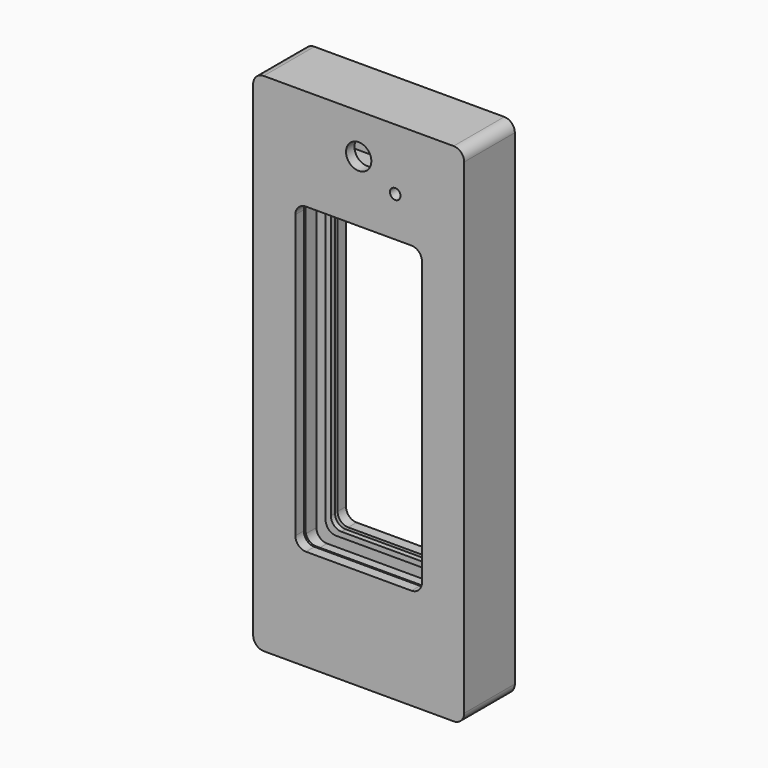
from build123d import *

# Parameters (mm, degrees)
F0_W      = 127
F0_H      = 304.8
F0_W_2    = 76.2
F0_H_2    = 182.88
F1_DEPTH  = 19.05
F2_W      = 101.6
F2_H      = 25.4
F3_DEPTH  = 41.91
F4_W      = 101.6
F4_H      = 208.28
F5_DEPTH  = 12.7
F6_W      = 114.3
F6_H      = 35.56
F7_DEPTH  = 12.7
F8_W      = 85.55
F8_H      = 192.23
F8_W_2    = 79.2
F8_H_2    = 185.88
F8_W_3    = 88.9
F8_H_3    = 3.175
F9_DEPTH  = 3.175
F10_W     = 85.55
F10_H     = 192.23
F10_W_2   = 79.2
F10_H_2   = 185.88
F10_W_3   = 88.9
F10_H_3   = 3.175
F11_DEPTH = 3.175
F13_D     = 15.24
F14_R     = 6.35
F15_W     = 6.35
F15_H     = 242.316
F16_DEPTH = 12.7
F18_DEPTH = 25.4
F19_R     = 3.175
F20_DEPTH = 12.7
F21_R     = 3.175
F22_DEPTH = 12.7


with BuildPart() as f1:
    # F0 (on Front) → F1 (new body, symmetric)
    with BuildSketch(Plane.XZ):
        Rectangle(F0_W, F0_H)
        Rectangle(F0_W_2, F0_H_2, mode=Mode.SUBTRACT)
    extrude(amount=F1_DEPTH, both=True)

    # F2 (on face) → F3 (cut)
    with BuildSketch(Plane(origin=(0, 0, -152.4), x_dir=(1, 0, 0), z_dir=(0, 0, -1))):
        Rectangle(F2_W, F2_H)
    extrude(amount=-F3_DEPTH, mode=Mode.SUBTRACT)

    # F4 (on Front) → F5 (cut, symmetric)
    with BuildSketch(Plane.XZ):
        Rectangle(F4_W, F4_H)
    extrude(amount=F5_DEPTH, both=True, mode=Mode.SUBTRACT)

    # F6 (on Front) → F7 (cut, symmetric)
    with BuildSketch(Plane.XZ):
        with Locations((0, 128.27)):
            Rectangle(F6_W, F6_H)
    extrude(amount=F7_DEPTH, both=True, mode=Mode.SUBTRACT)

    # F8 (on face) → F9 (join)
    with BuildSketch(Plane.XZ.offset(-12.7)):
        Rectangle(F8_W, F8_H)
        Rectangle(F8_W_2, F8_H_2, mode=Mode.SUBTRACT)
        with Locations((0, -149.3139)):
            Rectangle(F8_W_3, F8_H_3)
    extrude(amount=F9_DEPTH)

    # F10 (on face) → F11 (join)
    with BuildSketch(Plane(origin=(0, -12.7, 0), x_dir=(-1, 0, 0), z_dir=(0, 1, 0))):
        Rectangle(F10_W, F10_H)
        Rectangle(F10_W_2, F10_H_2, mode=Mode.SUBTRACT)
        with Locations((0, -149.3139)):
            Rectangle(F10_W_3, F10_H_3)
    extrude(amount=F11_DEPTH)

    # F13 (through all)
    with Locations(Plane.XZ.offset(19.05)):
        with Locations((0, 128.27)):
            Hole(F13_D / 2)

    # F14
    f14_edges = [f1.edges().sort_by_distance(p)[0] for p in [
        (-57.15, 0, 146.05),
        (-57.15, 0, 110.49),
        (57.15, 0, 110.49),
        (57.15, 0, 146.05),
        (-50.8, 0, 104.14),
        (50.8, 0, 104.14),
        (-50.8, 0, -110.49),
        (-50.8, 0, -104.14),
        (50.8, 0, -110.49),
        (50.8, 0, -104.14),
        (-42.775, -11.1125, 96.115),
        (-38.1, 15.875, 91.44),
        (-38.1, -15.875, 91.44),
        (-39.6, -11.1125, 92.94),
        (38.1, 15.875, 91.44),
        (38.1, -15.875, 91.44),
        (42.775, -11.1125, 96.115),
        (39.6, -11.1125, 92.94),
        (-39.6, 11.1125, 92.94),
        (-42.775, 11.1125, 96.115),
        (42.775, 11.1125, 96.115),
        (39.6, 11.1125, 92.94),
        (38.1, 15.875, -91.44),
        (38.1, -15.875, -91.44),
        (39.6, 11.1125, -92.94),
        (42.775, 11.1125, -96.115),
        (42.775, -11.1125, -96.115),
        (39.6, -11.1125, -92.94),
        (-39.6, 11.1125, -92.94),
        (-38.1, 15.875, -91.44),
        (-38.1, -15.875, -91.44),
        (-42.775, 11.1125, -96.115),
        (-39.6, -11.1125, -92.94),
        (-42.775, -11.1125, -96.115),
        (-63.5, 0, 152.4),
        (63.5, 0, 152.4),
        (-63.5, 0, -152.4),
        (63.5, 0, -152.4),
    ]]
    fillet(f14_edges, radius=F14_R)

    # F15 (on Front) → F16 (cut)
    with BuildSketch(Plane.XZ):
        with Locations((47.625, -4.318)):
            Rectangle(F15_W, F15_H)
    extrude(amount=-F16_DEPTH, mode=Mode.SUBTRACT)

    # F17 (on face) → F18 (cut)
    with BuildSketch(Plane(origin=(0, 19.05, 0), x_dir=(-1, 0, 0), z_dir=(0, 1, 0))):
        with BuildLine():
            ThreePointArc((-19.752405, 138.177781), (-21.22344, 142.609762), (-25.655422, 141.138727))
            ThreePointArc((-25.655422, 141.138727), (-28.68965, 127.428104), (-24.856661, 113.919))
            ThreePointArc((-24.856661, 113.919), (-20.346045, 112.710384), (-19.137429, 117.221))
            ThreePointArc((-19.137429, 117.221), (-22.088492, 127.621815), (-19.752405, 138.177781))
        make_face()
    extrude(amount=-F18_DEPTH, mode=Mode.SUBTRACT)

    # F19 (on face) → F20 (cut)
    with BuildSketch(Plane.XZ.offset(19.05)):
        with Locations((21.997045, 115.57)):
            Circle(F19_R)
    extrude(amount=-F20_DEPTH, mode=Mode.SUBTRACT)

    # F21 (on Front) → F22 (cut, symmetric)
    with BuildSketch(Plane.XZ):
        with Locations((-58.42, 101.346)):
            Circle(F21_R)
        with Locations((58.42, -105.41)):
            Circle(F21_R)
    extrude(amount=F22_DEPTH, both=True, mode=Mode.SUBTRACT)


solid = f1.part
